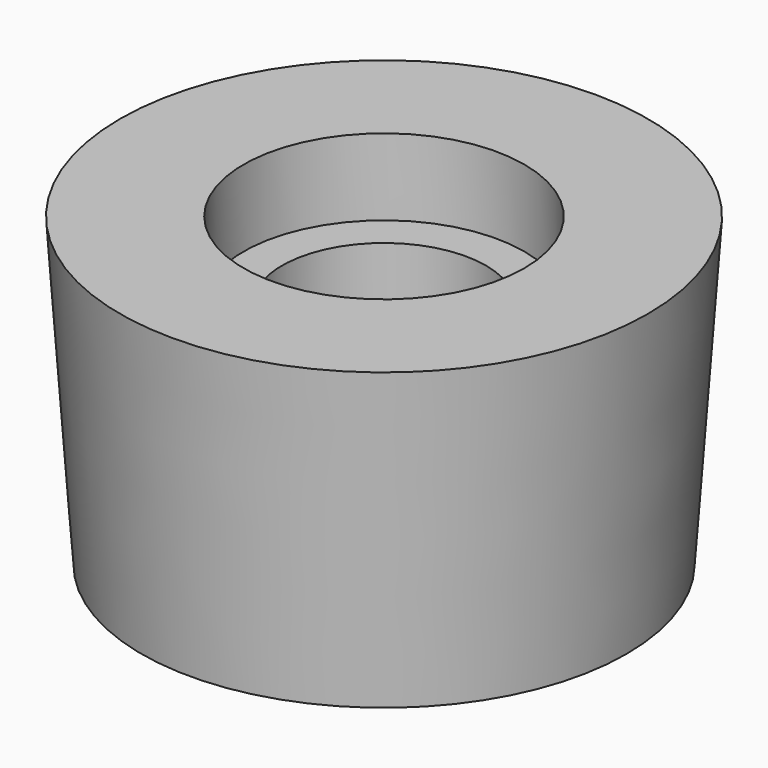
from build123d import *

# Parameters (mm, degrees)
F0_R     = 19
F1_DEPTH = 24
F1_TAPER = -4
F2_R     = 8
F3_DEPTH = 24.0010001
F2_R_2   = 11
F4_DEPTH = 6
F5_R     = 11
F5_R_2   = 8
F6_DEPTH = 6


with BuildPart() as f1:
    # F0 (on Top) → F1 (new body)
    with BuildSketch(Plane.XY):
        Circle(F0_R)
    extrude(amount=F1_DEPTH, taper=F1_TAPER)

    # F2 (on face) → F3 (cut, through all)
    with BuildSketch(Plane(origin=(0, 0, 0), x_dir=(1, 0, 0), z_dir=(0, 0, -1))):
        Circle(F2_R)
    extrude(amount=-F3_DEPTH, mode=Mode.SUBTRACT)

    # F2 (on face) → F4 (cut)
    with BuildSketch(Plane(origin=(0, 0, 0), x_dir=(1, 0, 0), z_dir=(0, 0, -1))):
        Circle(F2_R_2)
        Circle(F2_R, mode=Mode.SUBTRACT)
    extrude(amount=-F4_DEPTH, mode=Mode.SUBTRACT)

    # F5 (on face) → F6 (cut)
    with BuildSketch(Plane.XY.offset(24)):
        Circle(F5_R)
        Circle(F5_R_2, mode=Mode.SUBTRACT)
    extrude(amount=-F6_DEPTH, mode=Mode.SUBTRACT)


solid = f1.part
